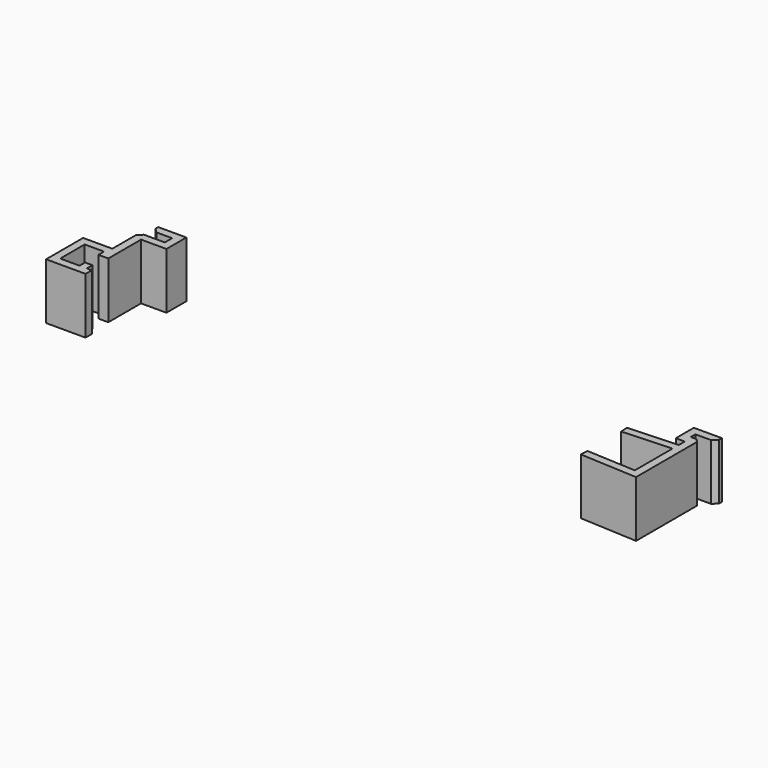
from build123d import *

# Parameters (mm, degrees)
F1_DEPTH = 25
F2_SIZE  = 2
F3_SIZE  = 1.5


with BuildPart() as f1:
    # F0 (on Top) → F1 (new body)
    with BuildSketch(Plane.XY):
        Polygon((131.920939, 4.559022), (131.920939, 5.159022), (131.920939, 6.559022), (131.920939, 7.159022), (140.920939, 7.159022), (140.920939, 10.659022), (128.420939, 10.659022), (128.420939, 0.616223), (132.420939, 0.616223), (132.420939, -2.691577), (110.268669, -3.847726), (110.451089, -7.342968), (132.420939, -6.191577), (132.420939, -27.191577), (110.451089, -26.040186), (110.267914, -29.53539), (135.920939, -30.879808), (135.920939, 4.559022), align=None)
        Polygon((-114.480485, -16.942968), (-110.080485, -16.942968), (-110.080485, 1.2555), (-98.780485, 1.2555), (-98.780485, 12.321532), (-111.280485, 12.321532), (-111.280485, 8.821532), (-102.280485, 8.821532), (-102.280485, 4.7555), (-113.580485, 4.7555), (-113.580485, -10.342968), (-126.580485, -10.342968), (-126.580485, -30.942968), (-109.030485, -30.942968), (-109.030485, -27.442968), (-111.230485, -27.442968), (-111.230485, -24.342968), (-114.480485, -24.342968), (-114.480485, -27.442968), (-123.080485, -27.442968), (-123.080485, -13.842968), (-114.480485, -13.842968), align=None)
    extrude(amount=F1_DEPTH)

    # F2
    f2_edges = [f1.edges().sort_by_distance(p)[0] for p in [
        (140.920939, 7.159022, 12.5),
        (-111.280485, 8.821532, 12.5),
        (-113.580485, 4.7555, 12.5),
    ]]
    chamfer(f2_edges, length=F2_SIZE)

    # F3
    f3_edges = [f1.edges().sort_by_distance(p)[0] for p in [
        (135.920939, 4.559022, 12.5),
    ]]
    chamfer(f3_edges, length=F3_SIZE)


solid = f1.part
